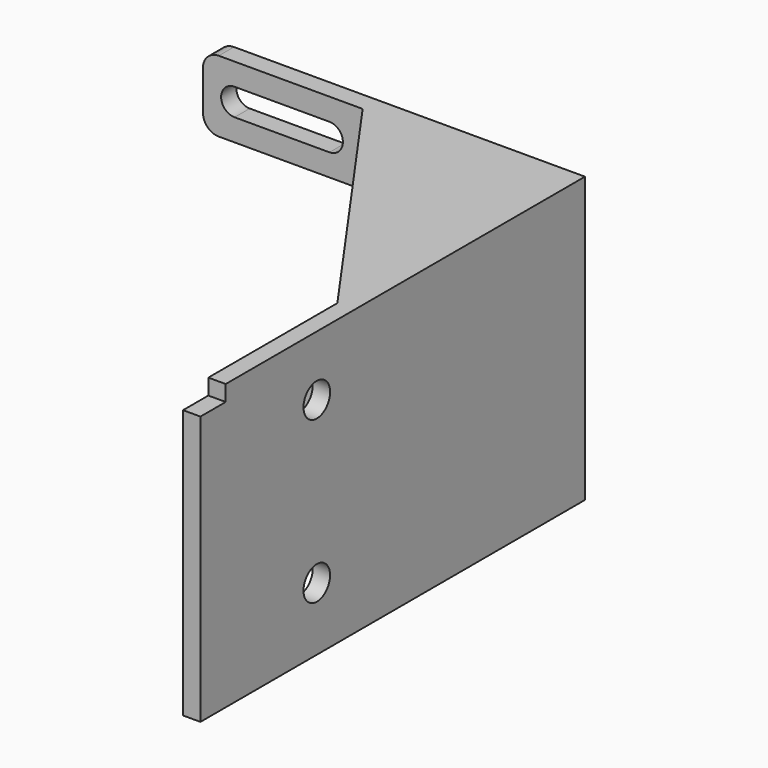
from build123d import *

# Parameters (mm, degrees)
F0_R     = 5.25
F1_DEPTH = 5.5
F3_DEPTH = 6
F5_DEPTH = 6
F7_DEPTH = 6
F8_R     = 5


with BuildPart() as f1:
    # F0 (on Right) → F1 (new body)
    with BuildSketch(Plane.YZ):
        Polygon((76, -45), (76, 45), (-66, 45), (-66, 40), (-76, 40), (-76, -45), align=None)
        with Locations((-30, -25)):
            Circle(F0_R, mode=Mode.SUBTRACT)
        with Locations((-30, 26)):
            Circle(F0_R, mode=Mode.SUBTRACT)
    extrude(amount=F1_DEPTH)

    # F2 (on face) → F3 (join)
    with BuildSketch(Plane(origin=(0, 76, 0), x_dir=(-1, 0, 0), z_dir=(0, 1, 0))):
        with BuildLine():
            Line((110.5, 45), (0, 45))
            Line((0, 45), (0, -45))
            Line((0, -45), (81.5, -45))
            Line((81.5, -45), (81.5, -24.55))
            Line((81.5, -24.55), (40.525, -24.55))
            ThreePointArc((40.525, -24.55), (17, -1.025), (40.525, 22.5))
            Line((40.525, 22.5), (110.5, 22.5))
            Line((110.5, 22.5), (110.5, 45))
        make_face()
        with BuildLine():
            ThreePointArc((71.5, -30.525), (75.75, -34.775), (71.5, -39.025))
            Line((71.5, -39.025), (41.5, -39.025))
            ThreePointArc((41.5, -39.025), (37.25, -34.775), (41.5, -30.525))
            Line((41.5, -30.525), (71.5, -30.525))
        make_face(mode=Mode.SUBTRACT)
        with BuildLine():
            ThreePointArc((100.5, 38), (104.75, 33.75), (100.5, 29.5))
            Line((100.5, 29.5), (70.5, 29.5))
            ThreePointArc((70.5, 29.5), (66.25, 33.75), (70.5, 38))
            Line((70.5, 38), (100.5, 38))
        make_face(mode=Mode.SUBTRACT)
    extrude(amount=-F3_DEPTH)

    # F4 (on face) → F5 (join)
    with BuildSketch(Plane.XY.offset(45)):
        Polygon((0, -15), (0, 70), (-60, 70), align=None)
    extrude(amount=-F5_DEPTH)

    # F6 (on face) → F7 (join)
    with BuildSketch(Plane(origin=(0, 0, -45), x_dir=(1, 0, 0), z_dir=(0, 0, -1))):
        Polygon((-30, -70), (0, -70), (0, -10), align=None)
    extrude(amount=-F7_DEPTH)

    # F8
    f8_edges = [f1.edges().sort_by_distance(p)[0] for p in [
        (-110.5, 73, 45),
        (-110.5, 73, 22.5),
        (-81.5, 73, -24.55),
        (-81.5, 73, -45),
    ]]
    fillet(f8_edges, radius=F8_R)


solid = f1.part
